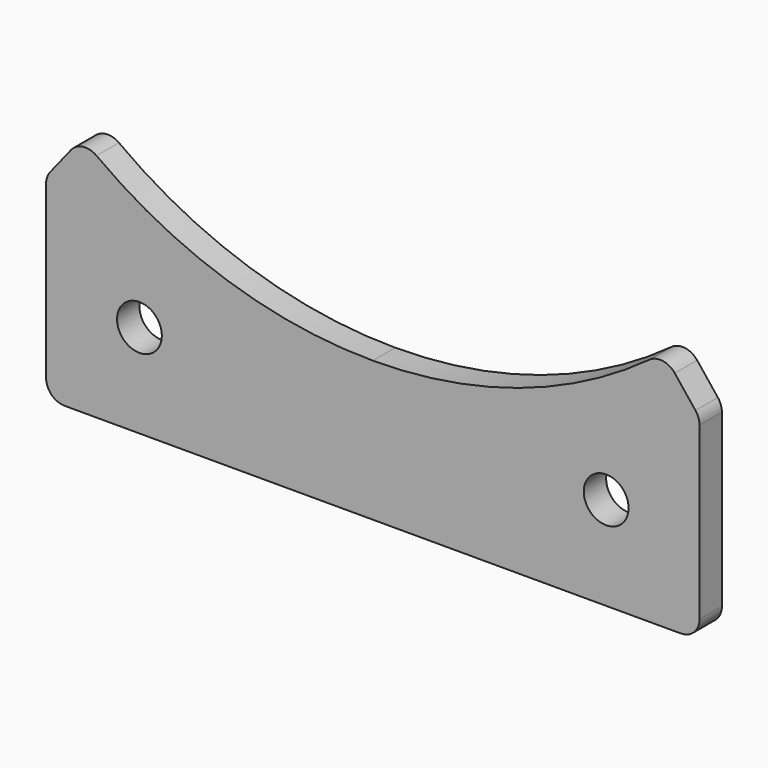
from build123d import *

# Parameters (mm, degrees)
F1_DEPTH = 1.5
F2_R     = 2
F3_R     = 2.4
F4_DEPTH = 25


with BuildPart() as f1:
    # F0 (on Front) → F1 (new body, symmetric)
    with BuildSketch(Plane.XZ):
        with BuildLine():
            ThreePointArc((0, -50), (-16.484532, -47.204451), (-31.125732, -39.130408))
            Line((-31.125732, -39.130408), (-35, -44.00103))
            Line((-35, -44.00103), (-35, -65))
            Line((-35, -65), (35, -65))
            Line((35, -65), (35, -44.00103))
            Line((35, -44.00103), (31.125732, -39.130408))
            ThreePointArc((31.125732, -39.130408), (16.484532, -47.204451), (0, -50))
        make_face()
    extrude(amount=F1_DEPTH, both=True)

    # F2
    f2_edges = [f1.edges().sort_by_distance(p)[0] for p in [
        (31.125732, 0, -39.130408),
        (35, 0, -44.00103),
        (35, 0, -65),
        (-31.125732, 0, -39.130408),
        (-35, 0, -44.00103),
        (-35, 0, -65),
    ]]
    fillet(f2_edges, radius=F2_R)

    # F3 (on face) → F4 (cut)
    with BuildSketch(Plane.XZ.offset(1.5)):
        with Locations((-25, -55)):
            Circle(F3_R)
        with Locations((25, -55)):
            Circle(F3_R)
    extrude(amount=-F4_DEPTH, mode=Mode.SUBTRACT)


solid = f1.part
